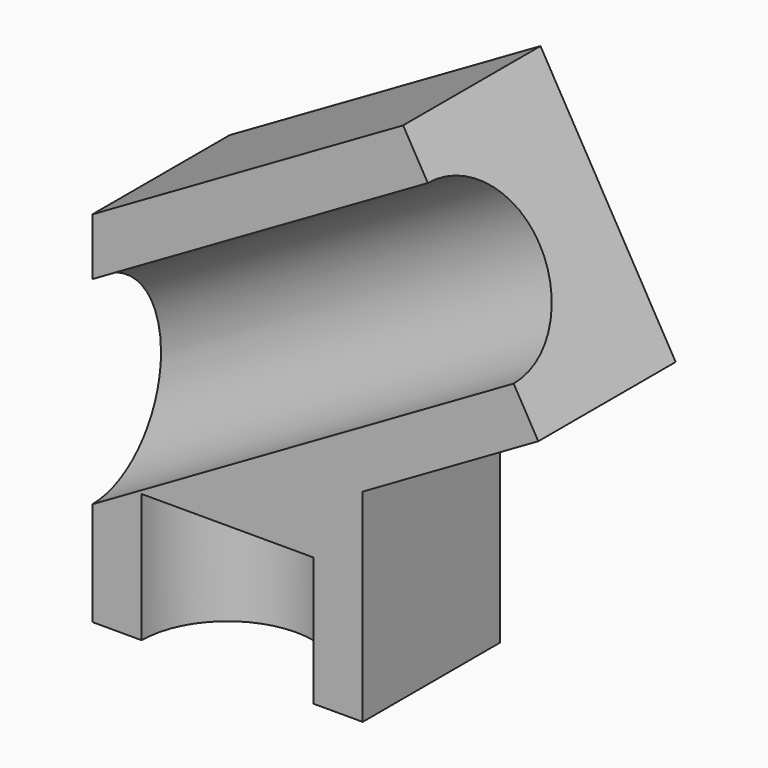
from build123d import *

# Parameters (mm, degrees)
F1_DEPTH = 12.7
F2_R     = 6.35
F3_DEPTH = 39.8215080757
F4_R     = 6.35
F5_DEPTH = 9.525


with BuildPart() as f1:
    # F0 (on Front) → F1 (new body)
    with BuildSketch(Plane.XZ):
        Polygon((-20, 11.5470053838), (-20, -15), (0, -15), (0, 0), (12.9903810568, 7.5), (2.9903810568, 24.8205080757), align=None)
    extrude(amount=F1_DEPTH)

    # F2 (on face) → F3 (cut, through all)
    with BuildSketch(Plane(origin=(12.9903810568, 0, 7.5), x_dir=(0, 1, 0), z_dir=(0.8660254038, 0, 0.5))):
        with Locations((-12.7, 10)):
            Circle(F2_R)
    extrude(amount=-F3_DEPTH, mode=Mode.SUBTRACT)

    # F4 (on face) → F5 (cut)
    with BuildSketch(Plane(origin=(0, 0, -15), x_dir=(1, 0, 0), z_dir=(0, 0, -1))):
        with Locations((-10, 12.7)):
            Circle(F4_R)
    extrude(amount=-F5_DEPTH, mode=Mode.SUBTRACT)


solid = f1.part
